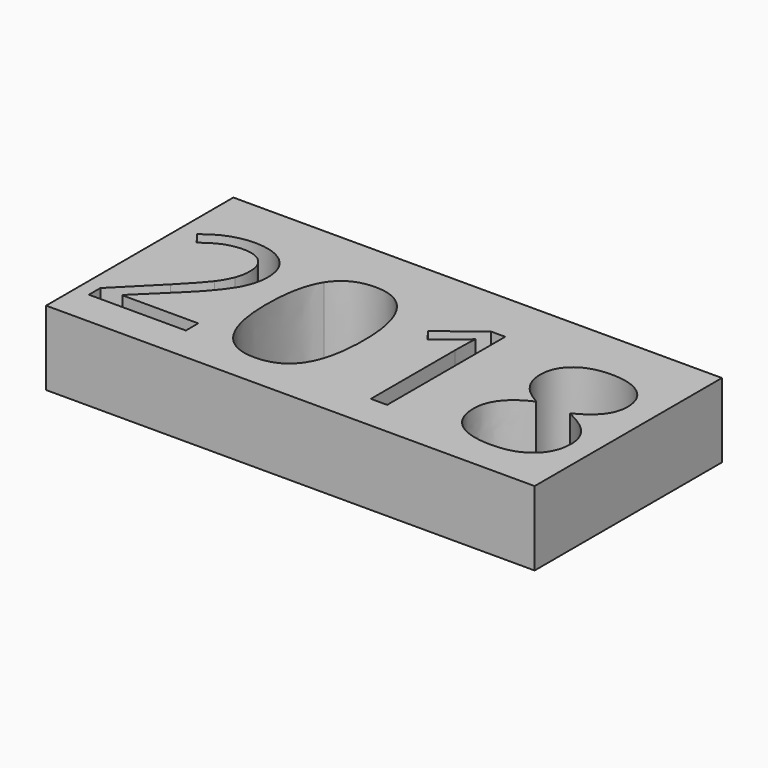
from build123d import *

# Parameters (mm, degrees)
F0_W     = 131.467973601
F0_H     = 63
F1_DEPTH = 20


with BuildPart() as f1:
    # F0 (on Top) → F1 (new body)
    with BuildSketch(Plane.XY):
        with Locations((-65.7339868005, -31.5)):
            Rectangle(F0_W, F0_H)
        with BuildLine():
            Line((-101.4531498872, -49.3273232344), (-101.4531498872, -53.5062699422))
            Line((-101.4531498872, -53.5062699422), (-127.5433306843, -53.5062699422))
            Line((-127.5433306843, -53.5062699422), (-127.5433306843, -49.6227165568))
            Line((-127.5433306843, -49.6227165568), (-117.0916198954, -39.1188775346))
            add(Edge.make_bspline(
                [(-117.0916198954, -39.1188775346), (-112.313198504, -34.279639871), (-110.7927916977, -32.2162306338)],
                knots=[0, 0, 0, 1, 1, 1], degree=2))
            add(Edge.make_bspline(
                [(-110.7927916977, -32.2162306338), (-109.2723848913, -30.1528213966), (-108.5121814882, -28.1980126456)],
                knots=[0, 0, 0, 1, 1, 1], degree=2))
            add(Edge.make_bspline(
                [(-108.5121814882, -28.1980126456), (-107.751978085, -26.2432038945), (-107.751978085, -23.9930018211)],
                knots=[0, 0, 0, 1, 1, 1], degree=2))
            add(Edge.make_bspline(
                [(-107.751978085, -23.9930018211), (-107.751978085, -20.8131795861), (-109.6807227193, -18.9539392629)],
                knots=[0, 0, 0, 1, 1, 1], degree=2))
            add(Edge.make_bspline(
                [(-109.6807227193, -18.9539392629), (-111.6094673537, -17.0946989397), (-115.0325546777, -17.0946989397)],
                knots=[0, 0, 0, 1, 1, 1], degree=2))
            add(Edge.make_bspline(
                [(-115.0325546777, -17.0946989397), (-117.4999577234, -17.0946989397), (-119.7154076413, -17.9113745957)],
                knots=[0, 0, 0, 1, 1, 1], degree=2))
            add(Edge.make_bspline(
                [(-119.7154076413, -17.9113745957), (-121.9308575591, -18.7280502517), (-124.6415256938, -20.8739958584)],
                knots=[0, 0, 0, 1, 1, 1], degree=2))
            Line((-124.6415256938, -20.8739958584), (-127.0307363895, -17.807118129))
            add(Edge.make_bspline(
                [(-127.0307363895, -17.807118129), (-121.5485838478, -13.2458977099), (-115.084682911, -13.2458977099)],
                knots=[0, 0, 0, 1, 1, 1], degree=2))
            add(Edge.make_bspline(
                [(-115.084682911, -13.2458977099), (-109.4895858637, -13.2458977099), (-106.3141076481, -16.1086065253)],
                knots=[0, 0, 0, 1, 1, 1], degree=2))
            add(Edge.make_bspline(
                [(-106.3141076481, -16.1086065253), (-103.1386294325, -18.9713153407), (-103.1386294325, -23.8018649655)],
                knots=[0, 0, 0, 1, 1, 1], degree=2))
            add(Edge.make_bspline(
                [(-103.1386294325, -23.8018649655), (-103.1386294325, -27.5811618841), (-105.2585109226, -31.2735784139)],
                knots=[0, 0, 0, 1, 1, 1], degree=2))
            add(Edge.make_bspline(
                [(-105.2585109226, -31.2735784139), (-107.3783924126, -34.9659949436), (-113.1820023934, -40.6132202243)],
                knots=[0, 0, 0, 1, 1, 1], degree=2))
            Line((-113.1820023934, -40.6132202243), (-121.8700412868, -49.1101222621))
            Line((-121.8700412868, -49.1101222621), (-121.8700412868, -49.3273232344))
            Line((-121.8700412868, -49.3273232344), (-101.4531498872, -49.3273232344))
        make_face(mode=Mode.SUBTRACT)
        with BuildLine():
            add(Edge.make_bspline(
                [(-72.7999976166, -18.4283129099), (-69.4464146037, -23.6715443821), (-69.4464146037, -33.6019728373)],
                knots=[0, 0, 0, 1, 1, 1], degree=2))
            add(Edge.make_bspline(
                [(-69.4464146037, -33.6019728373), (-69.4464146037, -43.897298926), (-72.6913971304, -48.9754576593)],
                knots=[0, 0, 0, 1, 1, 1], degree=2))
            add(Edge.make_bspline(
                [(-72.6913971304, -48.9754576593), (-75.9363796571, -54.0536163925), (-82.6174815662, -54.0536163925)],
                knots=[0, 0, 0, 1, 1, 1], degree=2))
            add(Edge.make_bspline(
                [(-82.6174815662, -54.0536163925), (-89.0205662307, -54.0536163925), (-92.3611171852, -48.8538251148)],
                knots=[0, 0, 0, 1, 1, 1], degree=2))
            add(Edge.make_bspline(
                [(-92.3611171852, -48.8538251148), (-95.7016681398, -43.654033837), (-95.7016681398, -33.6019728373)],
                knots=[0, 0, 0, 1, 1, 1], degree=2))
            add(Edge.make_bspline(
                [(-95.7016681398, -33.6019728373), (-95.7016681398, -23.2371424374), (-92.4697176714, -18.2111119375)],
                knots=[0, 0, 0, 1, 1, 1], degree=2))
            add(Edge.make_bspline(
                [(-92.4697176714, -18.2111119375), (-89.237767203, -13.1850814377), (-82.6174815662, -13.1850814377)],
                knots=[0, 0, 0, 1, 1, 1], degree=2))
            add(Edge.make_bspline(
                [(-82.6174815662, -13.1850814377), (-76.1535806295, -13.1850814377), (-72.7999976166, -18.4283129099)],
                knots=[0, 0, 0, 1, 1, 1], degree=2))
        make_face(mode=Mode.SUBTRACT)
        with BuildLine():
            Line((-47.2745393476, -13.810620238), (-47.2745393476, -53.5062699422))
            Line((-47.2745393476, -53.5062699422), (-51.6706870277, -53.5062699422))
            Line((-51.6706870277, -53.5062699422), (-51.6706870277, -25.2180153051))
            add(Edge.make_bspline(
                [(-51.6706870277, -25.2180153051), (-51.6706870277, -21.6819834755), (-51.4534860554, -18.536913396)],
                knots=[0, 0, 0, 1, 1, 1], degree=2))
            add(Edge.make_bspline(
                [(-51.4534860554, -18.536913396), (-52.0182085835, -19.110323963), (-52.7262837533, -19.7315187439)],
                knots=[0, 0, 0, 1, 1, 1], degree=2))
            add(Edge.make_bspline(
                [(-52.7262837533, -19.7315187439), (-53.4343589231, -20.3527135248), (-59.1858406706, -25.0268784495)],
                knots=[0, 0, 0, 1, 1, 1], degree=2))
            Line((-59.1858406706, -25.0268784495), (-61.5750513663, -21.9339366034))
            Line((-61.5750513663, -21.9339366034), (-51.0712123441, -13.810620238))
            Line((-51.0712123441, -13.810620238), (-47.2745393476, -13.810620238))
        make_face(mode=Mode.SUBTRACT)
        with BuildLine():
            add(Edge.make_bspline(
                [(-27.5787551762, -15.8088691835), (-24.3902449023, -13.2458977099), (-19.0384129439, -13.2458977099)],
                knots=[0, 0, 0, 1, 1, 1], degree=2))
            add(Edge.make_bspline(
                [(-19.0384129439, -13.2458977099), (-13.6083886355, -13.2458977099), (-10.43291042, -15.7697730085)],
                knots=[0, 0, 0, 1, 1, 1], degree=2))
            add(Edge.make_bspline(
                [(-10.43291042, -15.7697730085), (-7.2574322044, -18.293648307), (-7.2574322044, -22.7419242205)],
                knots=[0, 0, 0, 1, 1, 1], degree=2))
            add(Edge.make_bspline(
                [(-7.2574322044, -22.7419242205), (-7.2574322044, -25.6784813665), (-9.0732323331, -28.0937561788)],
                knots=[0, 0, 0, 1, 1, 1], degree=2))
            add(Edge.make_bspline(
                [(-9.0732323331, -28.0937561788), (-10.8890324619, -30.5090309912), (-14.8855303528, -32.4899038589)],
                knots=[0, 0, 0, 1, 1, 1], degree=2))
            add(Edge.make_bspline(
                [(-14.8855303528, -32.4899038589), (-10.0549807281, -34.8009222046), (-8.0176356076, -37.3378295615)],
                knots=[0, 0, 0, 1, 1, 1], degree=2))
            add(Edge.make_bspline(
                [(-8.0176356076, -37.3378295615), (-5.9802904871, -39.8747369184), (-5.9802904871, -43.2196318924)],
                knots=[0, 0, 0, 1, 1, 1], degree=2))
            add(Edge.make_bspline(
                [(-5.9802904871, -43.2196318924), (-5.9802904871, -48.1544379838), (-9.4294419278, -51.1040271882)],
                knots=[0, 0, 0, 1, 1, 1], degree=2))
            add(Edge.make_bspline(
                [(-9.4294419278, -51.1040271882), (-12.8785933685, -54.0536163925), (-18.8733402049, -54.0536163925)],
                knots=[0, 0, 0, 1, 1, 1], degree=2))
            add(Edge.make_bspline(
                [(-18.8733402049, -54.0536163925), (-25.2242966361, -54.0536163925), (-28.6473839601, -51.2690999271)],
                knots=[0, 0, 0, 1, 1, 1], degree=2))
            add(Edge.make_bspline(
                [(-28.6473839601, -51.2690999271), (-32.0704712841, -48.4845834618), (-32.0704712841, -43.3760165924)],
                knots=[0, 0, 0, 1, 1, 1], degree=2))
            add(Edge.make_bspline(
                [(-32.0704712841, -43.3760165924), (-32.0704712841, -36.5645941), (-23.764706102, -32.7592330646)],
                knots=[0, 0, 0, 1, 1, 1], degree=2))
            add(Edge.make_bspline(
                [(-23.764706102, -32.7592330646), (-27.509250865, -30.6480396135), (-29.1382581576, -28.1893246067)],
                knots=[0, 0, 0, 1, 1, 1], degree=2))
            add(Edge.make_bspline(
                [(-29.1382581576, -28.1893246067), (-30.7672654501, -25.7306095998), (-30.7672654501, -22.6897959871)],
                knots=[0, 0, 0, 1, 1, 1], degree=2))
            add(Edge.make_bspline(
                [(-30.7672654501, -22.6897959871), (-30.7672654501, -18.3718406571), (-27.5787551762, -15.8088691835)],
                knots=[0, 0, 0, 1, 1, 1], degree=2))
        make_face(mode=Mode.SUBTRACT)
    extrude(amount=-F1_DEPTH)


solid = f1.part
